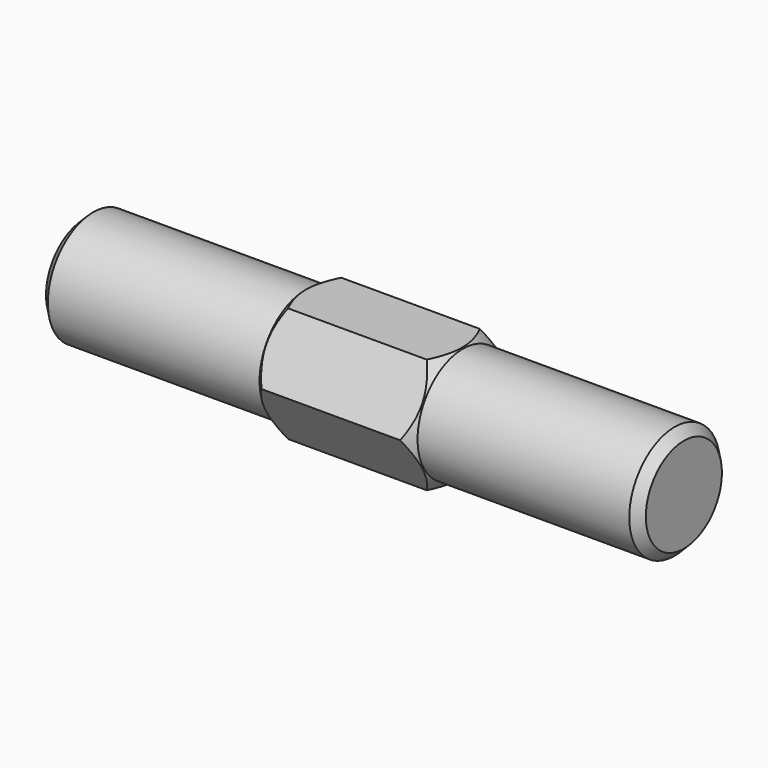
from build123d import *

# Parameters (mm, degrees)
F1_DEPTH = 13.081
F2_R     = 9.398
F3_DEPTH = 36.576
F4_SIZE  = 1.524


with BuildPart() as f1:
    # F0 (on Right) → F1 (new body)
    with BuildSketch(Plane.YZ):
        Polygon((5.499261, -9.525), (10.998523, 0), (5.499261, 9.525), (-5.499261, 9.525), (-10.998523, 0), (-5.499261, -9.525), align=None)
    extrude(amount=F1_DEPTH)

    # F2 (on face) → F3 (join)
    with BuildSketch(Plane.YZ.offset(13.081)):
        Circle(F2_R)
    extrude(amount=F3_DEPTH)

    # F4
    f4_edges = [f1.edges().sort_by_distance(p)[0] for p in [
        (49.657, -9.398, 0),
    ]]
    chamfer(f4_edges, length=F4_SIZE)

    # F5 (on Top) → F6 (revolve, cut)
    with BuildSketch(Plane.XY):
        Polygon((13.081, 9.398), (13.081, 11.43), (11.049, 11.43), align=None)
    revolve(axis=Axis((19.661747, 0, 0), (-1, 0, 0)), mode=Mode.SUBTRACT)

    # F7: F1 across face


with BuildPart() as f1_1:
    add(f1.part)
    add(f1.part.mirror(Plane(origin=(0, 0, 0), x_dir=(0, 1, 0), z_dir=(-1, 0, 0))))


solid = f1_1.part
